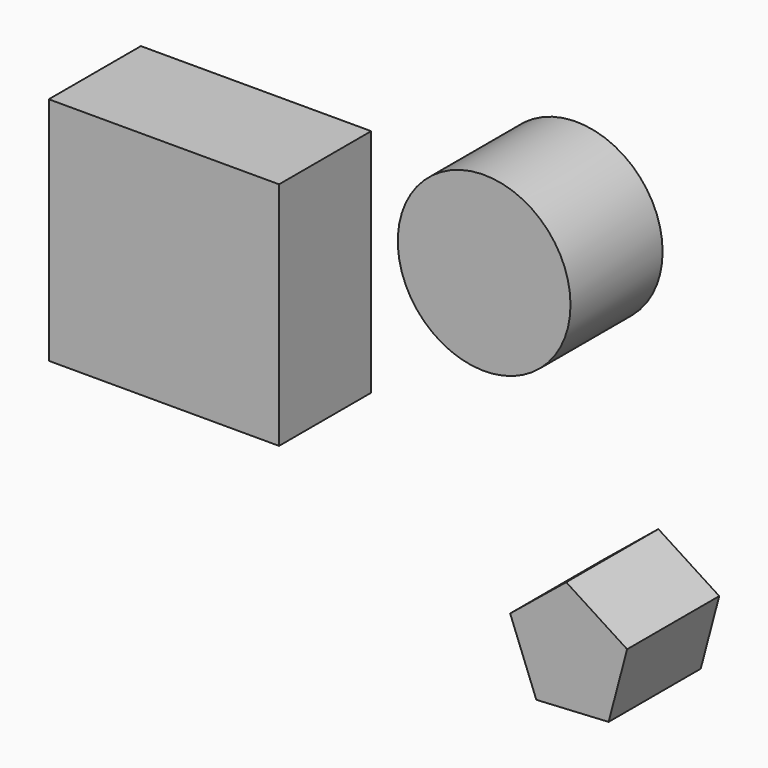
from build123d import *

# Parameters (mm, degrees)
F0_W     = 50.8
F0_H     = 50.8
F0_R     = 19.05
F1_DEPTH = 25.4


with BuildPart() as f1:
    # F0 (on Front) → F1 (new body)
    with BuildSketch(Plane.XZ):
        with Locations((-25.4, 16.26601)):
            Rectangle(F0_W, F0_H)
        with Locations((45.239903, 39.16483)):
            Circle(F0_R)
        Polygon((72.697138, -39.095146), (76.778576, -23.654006), (63.354412, -15.000754), (50.976386, -25.09389), (56.750508, -39.985044), align=None)
    extrude(amount=F1_DEPTH)


solid = f1.part
